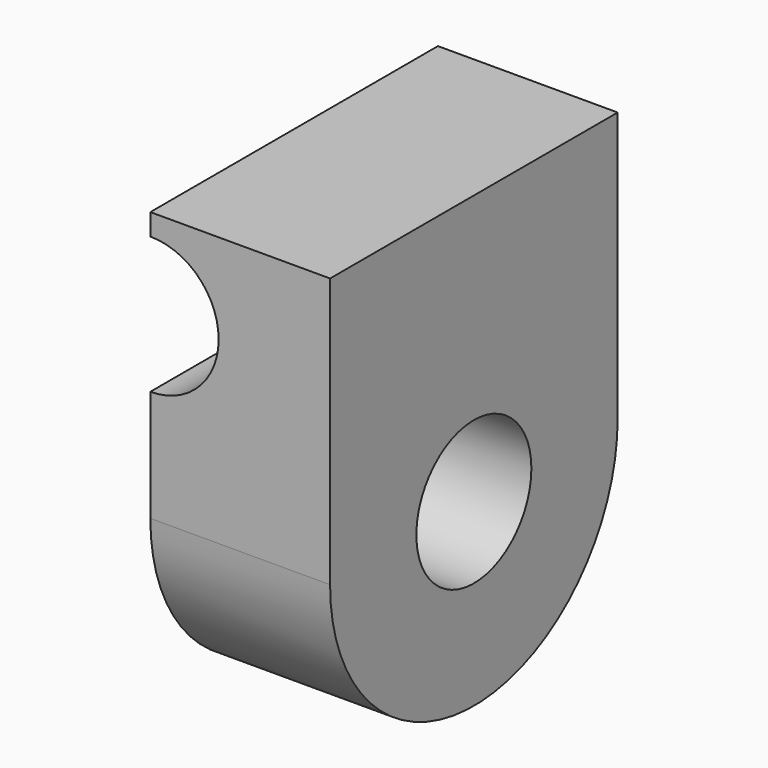
from build123d import *

# Parameters (mm, degrees)
SKETCH001_R  = 3.8
PAD001_DEPTH = 20
SKETCH_R     = 4
PAD_DEPTH    = 10


with BuildPart() as rodmount:
    # Sketch001 → Pad001 (new body)
    with BuildSketch(Plane.XZ.offset(10)):
        with Locations((0, 10)):
            Circle(SKETCH001_R)
    extrude(amount=-PAD001_DEPTH)


with BuildPart() as rodmount001:
    # Sketch → Pad (new body)
    with BuildSketch(Plane.YZ):
        with BuildLine():
            ThreePointArc((-10, 4.2e-05), (-2.1e-05, -10), (10, 0))
            Line((10, 15.000042), (10, 0))
            Line((-10, 15.000042), (10, 15.000042))
            Line((-10, 4.2e-05), (-10, 15.000042))
        make_face()
        Circle(SKETCH_R, mode=Mode.SUBTRACT)
    extrude(amount=PAD_DEPTH)

    # Cut: cut RodMount
    add(rodmount.part, mode=Mode.SUBTRACT)


solid = rodmount001.part
